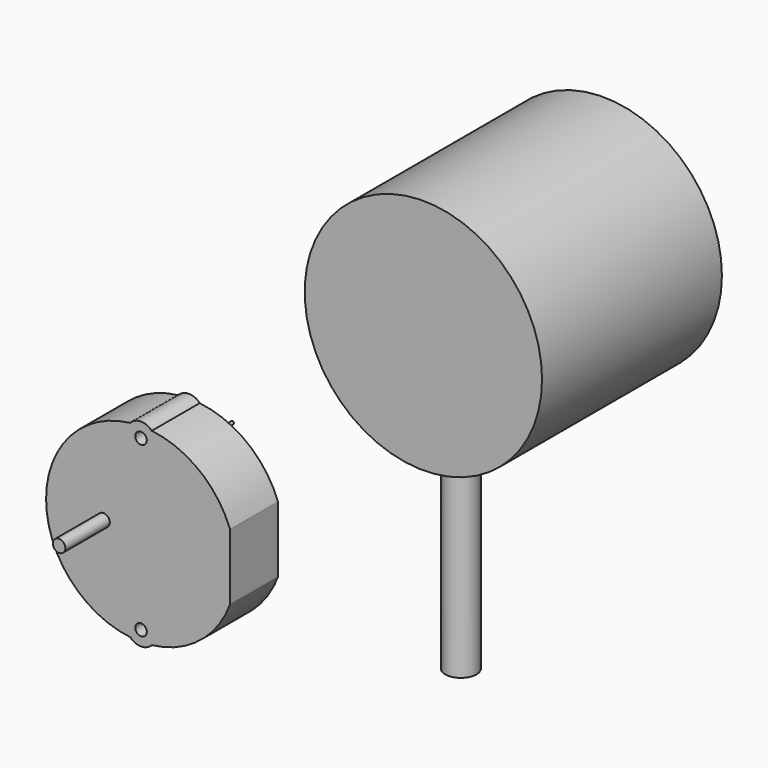
from build123d import *

# Parameters (mm, degrees)
F1_R      = 19
F2_DEPTH  = 36
F3_R      = 10
F4_DEPTH  = 5
F5_D      = 2.5
F5_DEPTH  = 10
F5_TIP    = 0.7510757738
F6_R      = 2.5
F7_DEPTH  = 50
F8_R      = 1
F8_R_2    = 0.925
F9_DEPTH  = 9.6
F10_DEPTH = 8.9
F11_R     = 1.9
F11_R_2   = 1.3
F12_DEPTH = 4.4
F11_R_3   = 0.25
F13_DEPTH = 3.9


with BuildPart() as f2:
    # F1 (on offset) → F2 (new body)
    with BuildSketch(Plane.XZ.offset(-100)):
        Circle(F1_R)
    extrude(amount=F2_DEPTH)

    # F3 (on face) → F4 (join)
    with BuildSketch(Plane(origin=(0, 100, 0), x_dir=(-1, 0, 0), z_dir=(0, 1, 0))):
        Circle(F3_R)
    extrude(amount=F4_DEPTH)

    # F5
    with Locations(Plane(origin=(0, 100, 0), x_dir=(-1, 0, 0), z_dir=(0, 1, 0))):
        with Locations((-13.8564064606, 0), (6.9282032303, -12), (6.9282032303, 12)):
            Hole(F5_D / 2, depth=F5_DEPTH)
            with Locations((0, 0, -(F5_DEPTH + F5_TIP / 2))):  # 118° drill point
                Cone(0, F5_D / 2, F5_TIP, mode=Mode.SUBTRACT)

    # F6 (on Top) → F7 (join)
    with BuildSketch(Plane.XY):
        with Locations((0, 71.5)):
            Circle(F6_R)
    extrude(amount=-F7_DEPTH)


with BuildPart() as f9:
    # F8 (on Front) → F9 (new body)
    with BuildSketch(Plane.XZ):
        with BuildLine():
            Line((20.25, -5.2893761447), (20.25, 5.2893761447))
            ThreePointArc((20.25, 5.2893761447), (15.3715262902, 11.9672258687), (7.7188640871, 15.1025))
            ThreePointArc((7.7188640871, 15.1025), (8.1865304257, 14.3611531209), (8.35, 13.5))
            ThreePointArc((8.35, 13.5), (5.1388468791, 11.3134695743), (4.2811359129, 15.1025))
            ThreePointArc((4.2811359129, 15.1025), (-9.2, 0), (4.2811359129, -15.1025))
            ThreePointArc((4.2811359129, -15.1025), (5.1388468791, -11.3134695743), (8.35, -13.5))
            ThreePointArc((8.35, -13.5), (8.1865304257, -14.3611531209), (7.7188640871, -15.1025))
            ThreePointArc((7.7188640871, -15.1025), (15.3715262902, -11.9672258687), (20.25, -5.2893761447))
        make_face()
        Circle(F8_R, mode=Mode.SUBTRACT)
        with BuildLine():
            ThreePointArc((4.2811359129, 15.1025), (6, 15.2), (7.7188640871, 15.1025))
            ThreePointArc((7.7188640871, 15.1025), (6, 15.85), (4.2811359129, 15.1025))
        make_face()
        with BuildLine():
            ThreePointArc((8.35, 13.5), (8.1865304257, 14.3611531209), (7.7188640871, 15.1025))
            ThreePointArc((7.7188640871, 15.1025), (6, 15.2), (4.2811359129, 15.1025))
            ThreePointArc((4.2811359129, 15.1025), (5.1388468791, 11.3134695743), (8.35, 13.5))
        make_face()
        with Locations((6, 13.5)):
            Circle(F8_R_2, mode=Mode.SUBTRACT)
        with BuildLine():
            ThreePointArc((4.2811359129, -15.1025), (6, -15.2), (7.7188640871, -15.1025))
            ThreePointArc((7.7188640871, -15.1025), (8.1865304257, -14.3611531209), (8.35, -13.5))
            ThreePointArc((8.35, -13.5), (5.1388468791, -11.3134695743), (4.2811359129, -15.1025))
        make_face()
        with Locations((6, -13.5)):
            Circle(F8_R_2, mode=Mode.SUBTRACT)
        with BuildLine():
            ThreePointArc((4.2811359129, -15.1025), (6, -15.85), (7.7188640871, -15.1025))
            ThreePointArc((7.7188640871, -15.1025), (6, -15.2), (4.2811359129, -15.1025))
        make_face()
        Circle(F8_R)
    extrude(amount=-F9_DEPTH)

    # F8 (on Front) → F10 (join)
    with BuildSketch(Plane.XZ):
        Circle(F8_R)
    extrude(amount=F10_DEPTH)

    # F11 (on face) → F12 (join)
    with BuildSketch(Plane(origin=(0, 9.6, 0), x_dir=(-1, 0, 0), z_dir=(0, 1, 0))):
        with Locations((4, 0)):
            Circle(F11_R)
        with Locations((-15, -9)):
            Circle(F11_R_2)
    extrude(amount=F12_DEPTH)

    # F11 (on face) → F13 (join)
    with BuildSketch(Plane(origin=(0, 9.6, 0), x_dir=(-1, 0, 0), z_dir=(0, 1, 0))):
        with Locations((-9.81, 11.43)):
            Circle(F11_R_3)
        with Locations((-2.19, 11.43)):
            Circle(F11_R_3)
        with Locations((-2.19, -11.43)):
            Circle(F11_R_3)
        with Locations((-9.81, -11.43)):
            Circle(F11_R_3)
    extrude(amount=F13_DEPTH)


solid = Compound([f2.part, f9.part])
